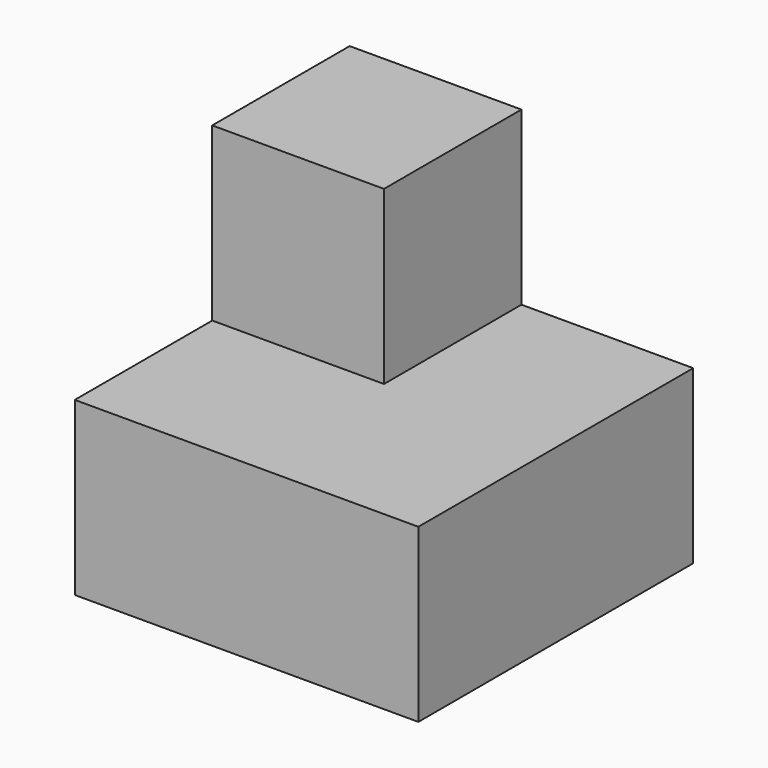
from build123d import *

# Parameters (mm, degrees)
F0_W      = 19.05
F0_H      = 19.05
F1_DEPTH  = 19.05
F1_FACE_W = 19.05
F1_FACE_H = 19.05
F2_DEPTH  = 19.05
F3_W      = 19.05
F3_H      = 19.05
F4_DEPTH  = 19.05
F5_W      = 19.05
F5_H      = 19.05
F6_DEPTH  = 19.05
F6_FACE_W = 19.05
F6_FACE_H = 19.05
F7_DEPTH  = 19.05


with BuildPart() as f1:
    # F0 (on Top) → F1 (new body)
    with BuildSketch(Plane.XY):
        with Locations((9.525, -9.525)):
            Rectangle(F0_W, F0_H)
    extrude(amount=F1_DEPTH)

    # F1_face (on face) → F2 (join)
    with BuildSketch(Plane(origin=(9.525, -9.525, 19.05), x_dir=(1, 0, 0), z_dir=(0, 0, 1))):
        Rectangle(F1_FACE_W, F1_FACE_H)
    extrude(amount=F2_DEPTH)

    # F3 (on face) → F4 (join)
    with BuildSketch(Plane.XZ.offset(19.05)):
        with Locations((9.525, 9.525)):
            Rectangle(F3_W, F3_H)
    extrude(amount=F4_DEPTH)

    # F5 (on face) → F6 (join)
    with BuildSketch(Plane.YZ.offset(19.05)):
        with Locations((-28.575, 9.525)):
            Rectangle(F5_W, F5_H)
    extrude(amount=F6_DEPTH)

    # F6_face (on face) → F7 (join)
    with BuildSketch(Plane(origin=(28.575, -19.05, 9.525), x_dir=(-1, 0, 0), z_dir=(0, 1, 0))):
        Rectangle(F6_FACE_W, F6_FACE_H)
    extrude(amount=F7_DEPTH)


solid = f1.part
